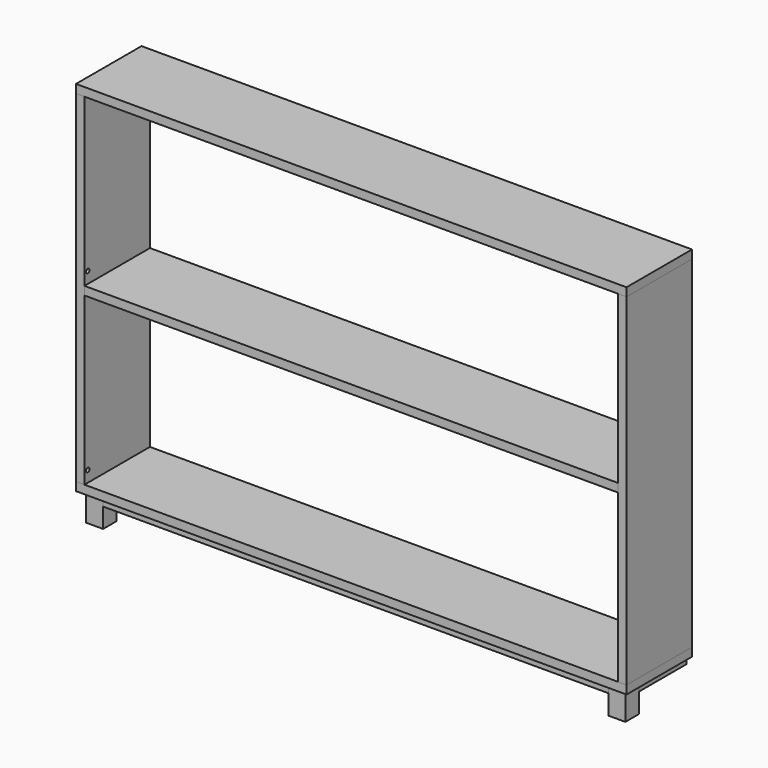
from build123d import *

# Parameters (mm, degrees)
F0_W      = 1238.25
F0_H      = 184.15
F1_DEPTH  = 19.05
F2_W      = 184.15
F2_H      = 768.35
F3_DEPTH  = 19.05
F4_W      = 184.15
F4_H      = 768.35
F5_DEPTH  = 19.05
F6_W      = 1219.2
F6_H      = 184.15
F6_W_2    = 19.05
F7_DEPTH  = 19.05
F10_W     = 1200.15
F10_H     = 184.15
F11_DEPTH = 9.525
F12_W     = 1200.15
F12_H     = 38.1
F13_DEPTH = 19.05
F14_W     = 38.1
F14_H     = 38.1
F15_DEPTH = 63.5
F16_W     = 38.1
F16_H     = 38.1
F17_DEPTH = 63.5
F18_W     = 1136.65
F18_H     = 38.1
F19_DEPTH = 19.05
F20_W     = 38.1
F20_H     = 133.35
F21_DEPTH = 19.05
F22_W     = 38.1
F22_H     = 133.35
F23_DEPTH = 19.05
F24_R     = 4.7625
F25_DEPTH = 12.7
F26_R     = 4.7625
F27_DEPTH = 12.7
F28_R     = 4.7625
F29_DEPTH = 12.7
F30_R     = 4.7625
F31_DEPTH = 12.7


with BuildPart() as f1:
    # F0 (on Top) → F1 (new body)
    with BuildSketch(Plane.XY):
        with Locations((619.125, 92.075)):
            Rectangle(F0_W, F0_H)
    extrude(amount=F1_DEPTH)


with BuildPart() as f3:
    # F2 (on face) → F3 (new body)
    with BuildSketch(Plane(origin=(0, 0, 0), x_dir=(0, -1, 0), z_dir=(-1, 0, 0))):
        with Locations((-92.075, 403.225)):
            Rectangle(F2_W, F2_H)
    extrude(amount=-F3_DEPTH)

    # F24 (on face) → F25 (cut)
    with BuildSketch(Plane.YZ.offset(19.05)):
        with Locations((9.525, 438.15)):
            Circle(F24_R)
    extrude(amount=-F25_DEPTH, mode=Mode.SUBTRACT)

    # F28 (on face) → F29 (cut)
    with BuildSketch(Plane.YZ.offset(19.05)):
        with Locations((9.525, 44.45)):
            Circle(F28_R)
    extrude(amount=-F29_DEPTH, mode=Mode.SUBTRACT)


with BuildPart() as f5:
    # F4 (on face) → F5 (new body)
    with BuildSketch(Plane.YZ.offset(1238.25)):
        with Locations((92.075, 403.225)):
            Rectangle(F4_W, F4_H)
    extrude(amount=-F5_DEPTH)

    # F26 (on face) → F27 (cut)
    with BuildSketch(Plane(origin=(1219.2, 0, 0), x_dir=(0, -1, 0), z_dir=(-1, 0, 0))):
        with Locations((-9.525, 438.15)):
            Circle(F26_R)
    extrude(amount=-F27_DEPTH, mode=Mode.SUBTRACT)

    # F30 (on face) → F31 (cut)
    with BuildSketch(Plane(origin=(1219.2, 0, 0), x_dir=(0, -1, 0), z_dir=(-1, 0, 0))):
        with Locations((-9.525, 44.45)):
            Circle(F30_R)
    extrude(amount=-F31_DEPTH, mode=Mode.SUBTRACT)


with BuildPart() as f7:
    # F6 (on face) → F7 (new body)
    with BuildSketch(Plane.XY.offset(787.4)):
        with Locations((628.65, 92.075)):
            Rectangle(F6_W, F6_H)
        with Locations((9.525, 92.075)):
            Rectangle(F6_W_2, F6_H)
    extrude(amount=F7_DEPTH)


with BuildPart() as f11:
    # F10 (on plane+point) → F11 (new body, symmetric)
    with BuildSketch(Plane.XY.offset(403.225)):
        with Locations((619.125, 92.075)):
            Rectangle(F10_W, F10_H)
    extrude(amount=F11_DEPTH, both=True)


with BuildPart() as f13:
    # F12 (on face) → F13 (new body)
    with BuildSketch(Plane(origin=(0, 184.15, 0), x_dir=(-1, 0, 0), z_dir=(0, 1, 0))):
        with Locations((-619.125, 768.35)):
            Rectangle(F12_W, F12_H)
    extrude(amount=-F13_DEPTH)


with BuildPart() as f15:
    # F14 (on face) → F15 (new body)
    with BuildSketch(Plane(origin=(0, 0, 0), x_dir=(1, 0, 0), z_dir=(0, 0, -1))):
        with Locations((31.75, -31.75)):
            Rectangle(F14_W, F14_H)
    extrude(amount=F15_DEPTH)


with BuildPart() as f17:
    # F16 (on face) → F17 (new body, through all)
    with BuildSketch(Plane(origin=(0, 0, 0), x_dir=(1, 0, 0), z_dir=(0, 0, -1))):
        with Locations((1206.5, -31.75)):
            Rectangle(F16_W, F16_H)
    extrude(amount=F17_DEPTH)


with BuildPart() as f19:
    # F18 (on face) → F19 (new body)
    with BuildSketch(Plane(origin=(0, 0, 0), x_dir=(1, 0, 0), z_dir=(0, 0, -1))):
        with Locations((619.125, -31.75)):
            Rectangle(F18_W, F18_H)
    extrude(amount=F19_DEPTH)


with BuildPart() as f21:
    # F20 (on face) → F21 (new body)
    with BuildSketch(Plane(origin=(0, 0, 0), x_dir=(1, 0, 0), z_dir=(0, 0, -1))):
        with Locations((31.75, -117.475)):
            Rectangle(F20_W, F20_H)
    extrude(amount=F21_DEPTH)


with BuildPart() as f23:
    # F22 (on face) → F23 (new body)
    with BuildSketch(Plane(origin=(0, 0, 0), x_dir=(1, 0, 0), z_dir=(0, 0, -1))):
        with Locations((1206.5, -117.475)):
            Rectangle(F22_W, F22_H)
    extrude(amount=F23_DEPTH)


solid = Compound([f1.part, f3.part, f5.part, f7.part, f11.part, f13.part, f15.part, f17.part, f19.part, f21.part, f23.part])
